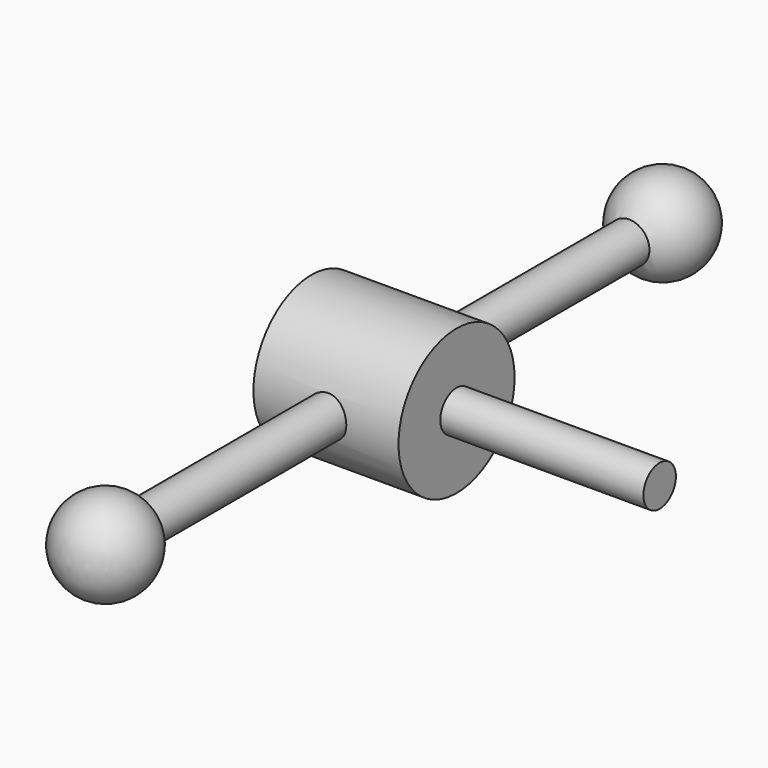
from build123d import *

# Parameters (mm, degrees)
F0_R     = 15.875
F1_DEPTH = 15.875
F2_R     = 4.445
F3_DEPTH = 44.45
F4_R     = 4.445
F5_DEPTH = 76.2


with BuildPart() as f1:
    # F0 (on Right) → F1 (new body, symmetric)
    with BuildSketch(Plane.YZ):
        Circle(F0_R)
    extrude(amount=F1_DEPTH, both=True)

    # F2 (on face) → F3 (join)
    with BuildSketch(Plane.YZ.offset(15.875)):
        Circle(F2_R)
    extrude(amount=F3_DEPTH)

    # F4 (on Front) → F5 (join, symmetric)
    with BuildSketch(Plane.XZ):
        Circle(F4_R)
    extrude(amount=F5_DEPTH, both=True)

    # F6 (on Top) → F7 (revolve)
    with BuildSketch(Plane.XY):
        with BuildLine():
            Line((-4.445, 76.2), (4.445, 76.2))
            Line((4.445, 76.2), (10.16, 76.2))
            ThreePointArc((10.16, 76.2), (0, 86.36), (-10.16, 76.2))
            Line((-10.16, 76.2), (-4.445, 76.2))
        make_face()
    revolve(axis=Axis((14.6032162011, 76.2, 0), (1, 0, 0)))

    # F8 (on Top) → F9 (revolve)
    with BuildSketch(Plane.XY):
        with BuildLine():
            Line((10.16, -76.2), (-10.16, -76.2))
            ThreePointArc((-10.16, -76.2), (0, -86.36), (10.16, -76.2))
        make_face()
    revolve(axis=Axis((4.1940081865, -76.2, 0), (1, 0, 0)))


solid = f1.part
